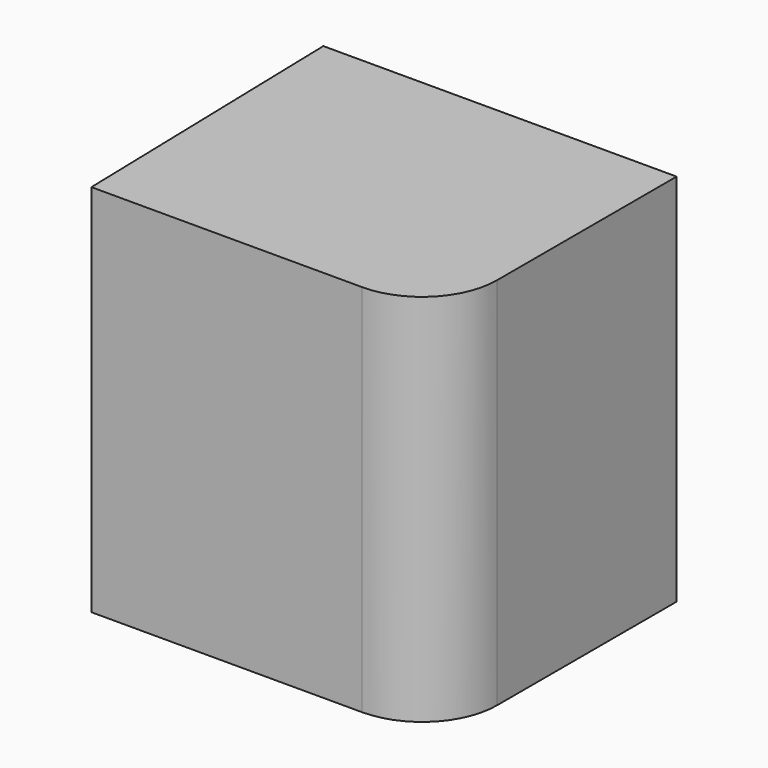
from build123d import *

# Parameters (mm, degrees)
F1_DEPTH = 25
F2_R     = 5
F3_T     = -2.5


with BuildPart() as f1:
    # F0 (on Top) → F1 (new body)
    with BuildSketch(Plane.XY):
        Polygon((-39.500976, 47.416381), (-63.099665, 47.416381), (-62.593336, 27.416381), (-39.500976, 27.416381), align=None)
    extrude(amount=F1_DEPTH)

    # F2
    f2_edges = [f1.edges().sort_by_distance(p)[0] for p in [
        (-39.500976, 27.416381, 12.5),
    ]]
    fillet(f2_edges, radius=F2_R)

    # F3
    f3_openings = [f1.faces().sort_by_distance(p)[0] for p in [
        (-51.296904, 37.556207, 0),
    ]]
    offset(amount=F3_T, openings=f3_openings)


solid = f1.part
